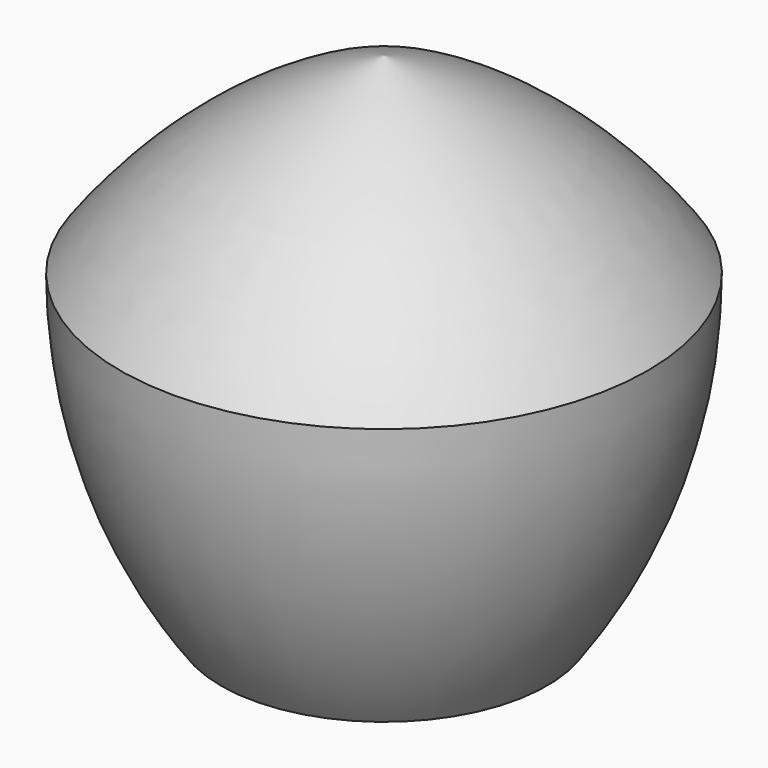
from build123d import *


with BuildPart() as f1:
    # F0 (on Front) → F1 (revolve)
    with BuildSketch(Plane.XZ):
        with BuildLine():
            ThreePointArc((0, 52.573111), (-27.876826, 38.369159), (-50, 16.245985))
            ThreePointArc((-50, 16.245985), (-45.105652, -14.655715), (-30.901699, -42.53254))
            ThreePointArc((-30.901699, -42.53254), (-15.643447, -46.195723), (0, -47.426889))
            Line((0, -47.426889), (0, 52.573111))
        make_face()
    revolve(axis=Axis((0, 0, 2.573111), (0, 0, -1)))


solid = f1.part
